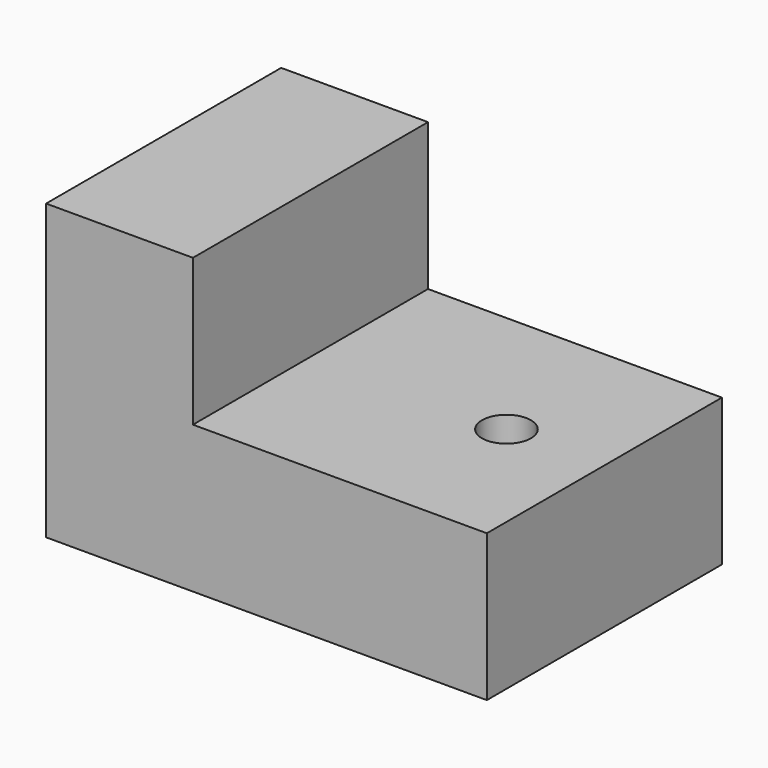
from build123d import *

# Parameters (mm, degrees)
F0_W     = 228.6
F0_H     = 152.4
F1_DEPTH = 76.2
F2_W     = 152.433592
F2_H     = 76.2
F3_DEPTH = 152.401
F5_D     = 25.4


with BuildPart() as f1:
    # F0 (on Front) → F1 (new body, symmetric)
    with BuildSketch(Plane.XZ):
        with Locations((6.091539, 0)):
            Rectangle(F0_W, F0_H)
    extrude(amount=F1_DEPTH, both=True)

    # F2 (on face) → F3 (cut, through all)
    with BuildSketch(Plane.XZ.offset(76.2)):
        with Locations((44.174743, 38.1)):
            Rectangle(F2_W, F2_H)
    extrude(amount=-F3_DEPTH, mode=Mode.SUBTRACT)

    # F5 (through all)
    with Locations(Plane.XY):
        with Locations((69.591539, 0)):
            Hole(F5_D / 2)


solid = f1.part
